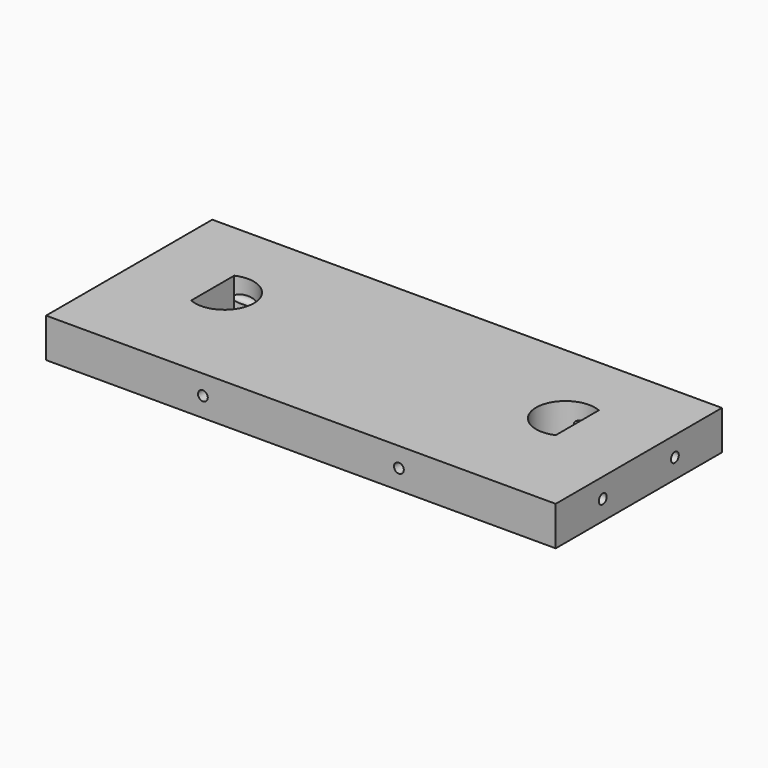
from build123d import *

# Parameters (mm, degrees)
F0_W     = 130
F0_H     = 53
F1_DEPTH = 10
F2_R     = 1.25
F5_DEPTH = 35
F3_R     = 1.25
F6_DEPTH = 53
F4_R     = 1.25
F7_DEPTH = 35
F9_DEPTH = 10


with BuildPart() as f1:
    # F0 (on Top) → F1 (new body)
    with BuildSketch(Plane.XY):
        with Locations((20.023906, 2.124549)):
            Rectangle(F0_W, F0_H)
    extrude(amount=F1_DEPTH)

    # F2 (on face) → F5 (cut)
    with BuildSketch(Plane.YZ.offset(85.023906)):
        with Locations((-9.375451, 5)):
            Circle(F2_R)
        with Locations((13.624549, 5)):
            Circle(F2_R)
    extrude(amount=-F5_DEPTH, mode=Mode.SUBTRACT)

    # F3 (on face) → F6 (cut, through all)
    with BuildSketch(Plane.XZ.offset(24.375451)):
        with Locations((-4.976094, 5)):
            Circle(F3_R)
        with Locations((45.023906, 5)):
            Circle(F3_R)
    extrude(amount=-F6_DEPTH, mode=Mode.SUBTRACT)

    # F4 (on face) → F7 (cut)
    with BuildSketch(Plane(origin=(-44.976094, 0, 0), x_dir=(0, -1, 0), z_dir=(-1, 0, 0))):
        with Locations((-13.624549, 5)):
            Circle(F4_R)
        with Locations((9.375451, 5)):
            Circle(F4_R)
    extrude(amount=-F7_DEPTH, mode=Mode.SUBTRACT)

    # F8 (on face) → F9 (cut, through all)
    with BuildSketch(Plane.XY.offset(10)):
        with BuildLine():
            Line((66.523906, -1.249315), (66.523906, 12.498412))
            ThreePointArc((66.523906, 12.498412), (56.023906, 5.624549), (66.523906, -1.249315))
        make_face()
        with BuildLine():
            ThreePointArc((-26.476094, -1.249315), (-19.368175, -0.650401), (-15.976094, 5.624549))
            ThreePointArc((-15.976094, 5.624549), (-19.368175, 11.899499), (-26.476094, 12.498412))
            Line((-26.476094, 12.498412), (-26.476094, -1.249315))
        make_face()
    extrude(amount=-F9_DEPTH, mode=Mode.SUBTRACT)


solid = f1.part
